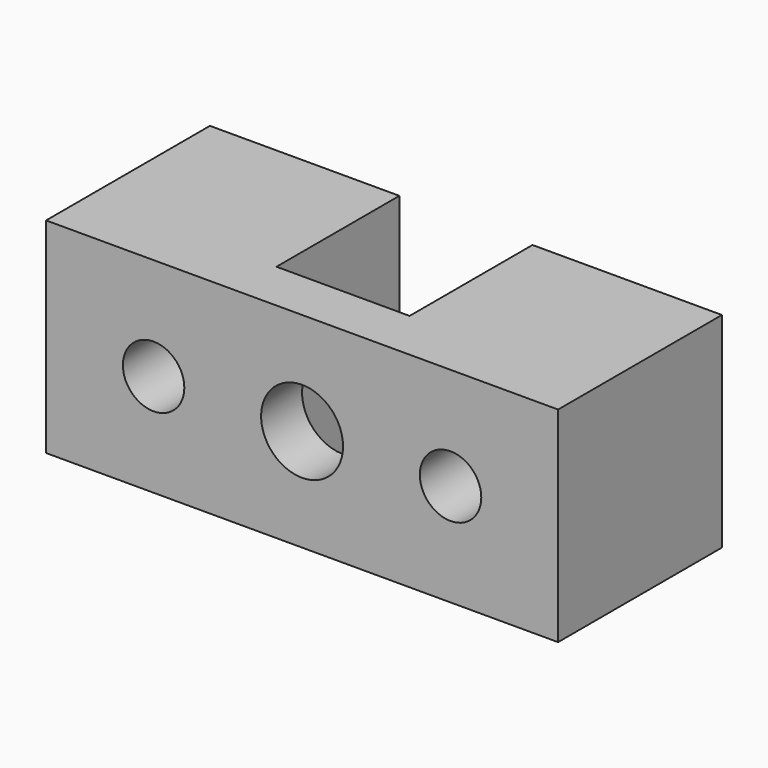
from build123d import *

# Parameters (mm, degrees)
SKETCH_W        = 50
SKETCH_H        = 20
PAD_DEPTH       = 20
SKETCH001_W     = 13
SKETCH001_H     = 15
POCKET_DEPTH    = 20.001
SKETCH002_R     = 4
SKETCH002_R_2   = 3
POCKET001_DEPTH = 5
POCKET002_DEPTH = 20.001


with BuildPart() as part:
    # Sketch → Pad (new body)
    with BuildSketch(Plane.XZ):
        Rectangle(SKETCH_W, SKETCH_H)
    extrude(amount=PAD_DEPTH)

    # Sketch001 (on Face1 of Pad) → Pocket (cut, through all)
    with BuildSketch(Plane(origin=(0, 0, 10), x_dir=(-1, 0, 0), z_dir=(0, 0, 1))):
        with Locations((0, 7.5)):
            Rectangle(SKETCH001_W, SKETCH001_H)
    extrude(amount=-POCKET_DEPTH, mode=Mode.SUBTRACT)

    # Sketch002 (on Face8 of Pocket) → Pocket001 (cut)
    with BuildSketch(Plane.XZ.offset(20)):
        Circle(SKETCH002_R)
        with Locations((-14.5, 0)):
            Circle(SKETCH002_R_2)
        with Locations((14.5, 0)):
            Circle(SKETCH002_R_2)
    extrude(amount=-POCKET001_DEPTH, mode=Mode.SUBTRACT)

    # Sketch002 (on Face8 of Pocket) → Pocket002 (cut, through all)
    with BuildSketch(Plane.XZ.offset(20)):
        Circle(SKETCH002_R)
        with Locations((-14.5, 0)):
            Circle(SKETCH002_R_2)
        with Locations((14.5, 0)):
            Circle(SKETCH002_R_2)
    extrude(amount=-POCKET002_DEPTH, mode=Mode.SUBTRACT)


solid = part.part
